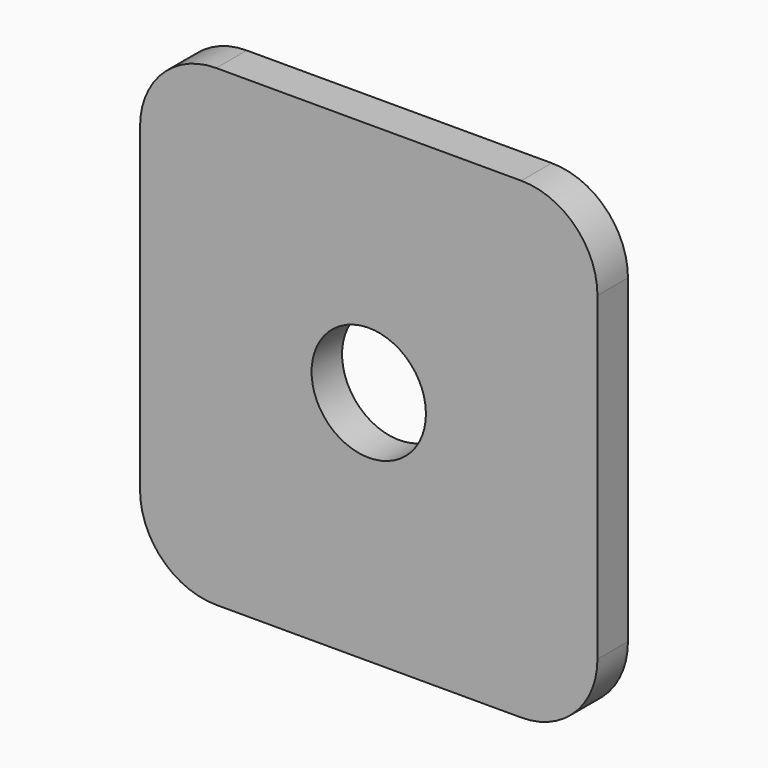
from build123d import *

# Parameters (mm, degrees)
F0_W     = 30
F0_H     = 31
F0_R     = 3.75
F1_DEPTH = 1.25
F2_R     = 5


with BuildPart() as f1:
    # F0 (on Front) → F1 (new body, symmetric)
    with BuildSketch(Plane.XZ):
        Rectangle(F0_W, F0_H)
        Circle(F0_R, mode=Mode.SUBTRACT)
    extrude(amount=F1_DEPTH, both=True)

    # F2
    f2_edges = [f1.edges().sort_by_distance(p)[0] for p in [
        (15, 0, 15.5),
        (15, 0, -15.5),
        (-15, 0, 15.5),
        (-15, 0, -15.5),
    ]]
    fillet(f2_edges, radius=F2_R)


solid = f1.part
